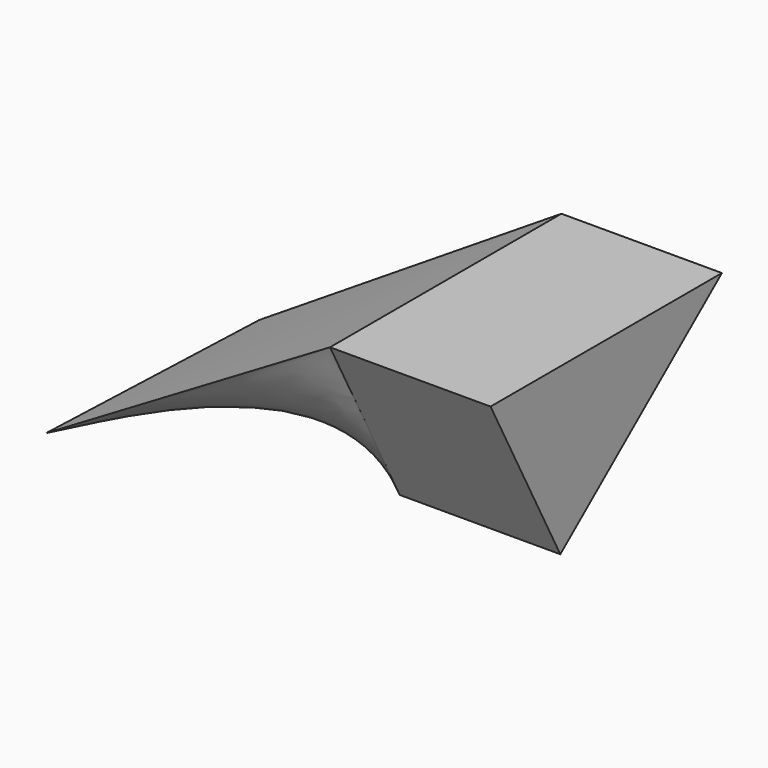
from build123d import *

# Parameters (mm, degrees)
F1_DEPTH = 46.228


with BuildPart() as f1:
    # F0 (on Right) → F1 (new body)
    with BuildSketch(Plane.YZ):
        Polygon((38.67162, 29.437756), (-44.609897, 29.437756), (-19.497314, -18.224897), align=None)
    extrude(amount=F1_DEPTH)

    # F2 (on Top) → F3 section 0
    with BuildSketch(Plane.XY):
        Polygon((-56.049731, 0), (-59.061863, -73.000804), (-25.215618, -5.035704), align=None)
    # F1_face (on face) → F3 section 1
    with BuildSketch(Plane(origin=(0, -8.47853, 13.550205), x_dir=(0, 1, 0), z_dir=(-1, 0, 0))):
        Polygon((47.150151, -15.887551), (-11.018784, 31.775102), (-36.131366, -15.887551), align=None)
    loft()


solid = f1.part
